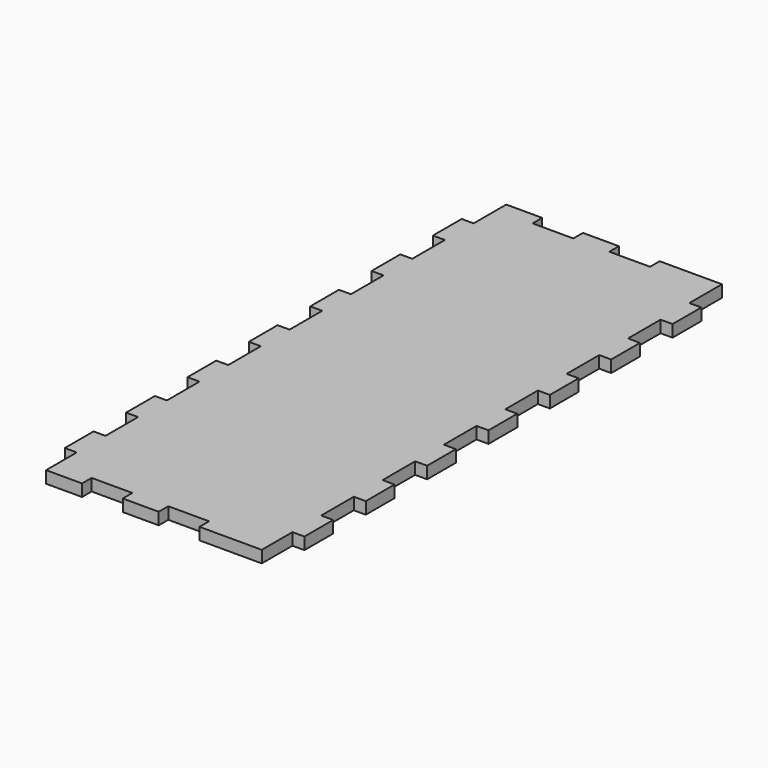
from build123d import *

# Parameters (mm, degrees)
F1_DEPTH = 6.35


with BuildPart() as f1:
    # F0 (on Top) → F1 (new body)
    with BuildSketch(Plane.XY):
        Polygon((57.15, 130.81), (57.15, 152.4), (24.13, 152.4), (24.13, 146.05), (2.54, 146.05), (2.54, 152.4), (-16.51, 152.4), (-16.51, 146.05), (-38.1, 146.05), (-38.1, 152.4), (-57.15, 152.4), (-57.15, 130.81), (-63.5, 130.81), (-63.5, 111.76), (-57.15, 111.76), (-57.15, 90.17), (-63.5, 90.17), (-63.5, 71.12), (-57.15, 71.12), (-57.15, 49.53), (-63.5, 49.53), (-63.5, 30.48), (-57.15, 30.48), (-57.15, 8.89), (-63.5, 8.89), (-63.5, -10.16), (-57.15, -10.16), (-57.15, -31.75), (-63.5, -31.75), (-63.5, -50.8), (-57.15, -50.8), (-57.15, -72.39), (-63.5, -72.39), (-63.5, -91.44), (-57.15, -91.44), (-57.15, -113.03), (-63.5, -113.03), (-63.5, -132.08), (-57.15, -132.08), (-57.15, -152.4), (-38.1, -152.4), (-38.1, -146.05), (-16.51, -146.05), (-16.51, -152.4), (2.54, -152.4), (2.54, -146.05), (24.13, -146.05), (24.13, -152.4), (43.18, -152.4), (57.15, -152.4), (57.15, -132.08), (63.5, -132.08), (63.5, -113.03), (57.15, -113.03), (57.15, -91.44), (63.5, -91.44), (63.5, -72.39), (57.15, -72.39), (57.15, -50.8), (63.5, -50.8), (63.5, -31.75), (57.15, -31.75), (57.15, -10.16), (63.5, -10.16), (63.5, 8.89), (57.15, 8.89), (57.15, 30.48), (63.5, 30.48), (63.5, 49.53), (57.15, 49.53), (57.15, 71.12), (63.5, 71.12), (63.5, 90.17), (57.15, 90.17), (57.15, 111.76), (63.5, 111.76), (63.5, 130.81), align=None)
    extrude(amount=F1_DEPTH)


solid = f1.part
